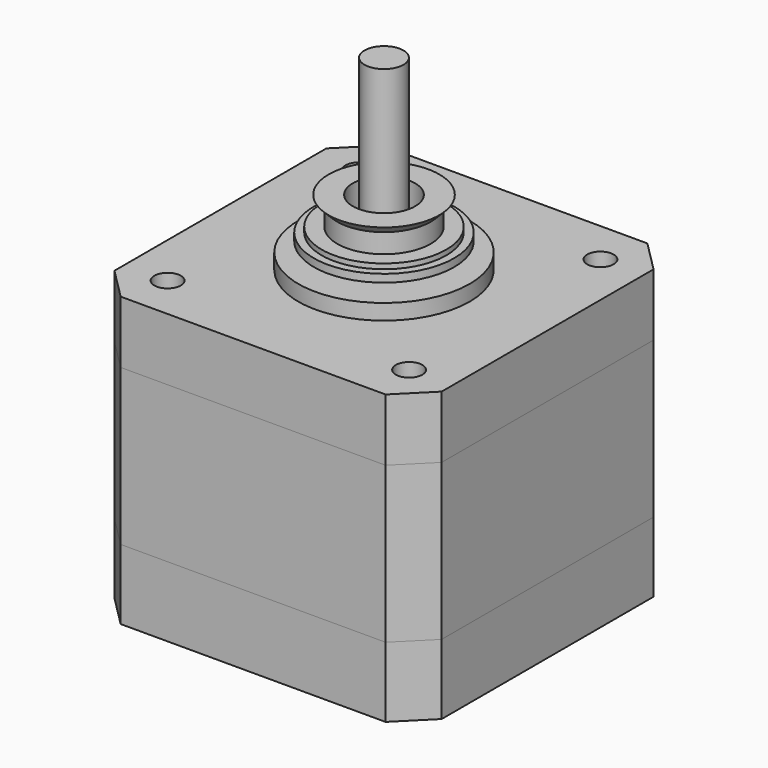
from build123d import *

# Parameters (mm, degrees)
BOX_W             = 42
BOX_H             = 42
BOX_DEPTH         = 8
CHAMFER_SIZE      = 4
CYLINDER_R        = 11
CYLINDER_DEPTH    = 2
SKETCH_R          = 1.7
HOLE_DEPTH        = 5
HOLE_TIPS_R       = 1.7
BOX001_W          = 42
BOX001_H          = 42
BOX001_DEPTH      = 20
CHAMFER001_SIZE   = 4
BOX002_W          = 42
BOX002_H          = 42
BOX002_DEPTH      = 9
CHAMFER002_SIZE   = 4
CYLINDER001_R     = 2.5
CYLINDER001_DEPTH = 22
CYLINDER002_R     = 5.99
CYLINDER002_DEPTH = 8.5
CYLINDER003_R     = 4
CYLINDER003_DEPTH = 13


with BuildPart() as body:
    # Box → Box (join)
    with BuildSketch(Plane(origin=(21, -21, 0), x_dir=(-1, 0, 0), z_dir=(0, 0, -1))):
        with Locations((21, 21)):
            Rectangle(BOX_W, BOX_H)
    extrude(amount=BOX_DEPTH)

    # Chamfer
    chamfer_edges = [body.edges().sort_by_distance(p)[0] for p in [
        (21, -21, -4),
        (21, 21, -4),
        (-21, -21, -4),
        (-21, 21, -4),
    ]]
    chamfer(chamfer_edges, length=CHAMFER_SIZE)

    # Cylinder → Cylinder (join)
    with BuildSketch(Plane.XY):
        Circle(CYLINDER_R)
    extrude(amount=CYLINDER_DEPTH)

    # Sketch → Hole (cut)
    with BuildSketch(Plane.XY):
        with Locations((-15.5, 15.349138)):
            Circle(SKETCH_R)
        with Locations((15.5, 15.349138)):
            Circle(SKETCH_R)
        with Locations((-15.5, -15.349138)):
            Circle(SKETCH_R)
        with Locations((15.5, -15.349138)):
            Circle(SKETCH_R)
    extrude(amount=-HOLE_DEPTH, mode=Mode.SUBTRACT)

    # Hole tips → Hole tip 1 section 0
    with BuildSketch(Plane.XY.offset(-5), mode=Mode.PRIVATE) as hole_tip_1_s0:
        with Locations((-15.5, 15.349138)):
            Circle(HOLE_TIPS_R)
    loft([hole_tip_1_s0.sketch, Vertex(-15.5, 15.349138, -6.021463)], mode=Mode.SUBTRACT)

    # Hole tips → Hole tip 2 section 0
    with BuildSketch(Plane.XY.offset(-5), mode=Mode.PRIVATE) as hole_tip_2_s0:
        with Locations((15.5, 15.349138)):
            Circle(HOLE_TIPS_R)
    loft([hole_tip_2_s0.sketch, Vertex(15.5, 15.349138, -6.021463)], mode=Mode.SUBTRACT)

    # Hole tips → Hole tip 3 section 0
    with BuildSketch(Plane.XY.offset(-5), mode=Mode.PRIVATE) as hole_tip_3_s0:
        with Locations((-15.5, -15.349138)):
            Circle(HOLE_TIPS_R)
    loft([hole_tip_3_s0.sketch, Vertex(-15.5, -15.349138, -6.021463)], mode=Mode.SUBTRACT)

    # Hole tips → Hole tip 4 section 0
    with BuildSketch(Plane.XY.offset(-5), mode=Mode.PRIVATE) as hole_tip_4_s0:
        with Locations((15.5, -15.349138)):
            Circle(HOLE_TIPS_R)
    loft([hole_tip_4_s0.sketch, Vertex(15.5, -15.349138, -6.021463)], mode=Mode.SUBTRACT)


with BuildPart() as body001:
    # Box001 → Box001 (join)
    with BuildSketch(Plane(origin=(21, -21, 0), x_dir=(-1, 0, 0), z_dir=(0, 0, -1))):
        with Locations((21, 21)):
            Rectangle(BOX001_W, BOX001_H)
    extrude(amount=BOX001_DEPTH)

    # Chamfer001
    chamfer001_edges = [body001.edges().sort_by_distance(p)[0] for p in [
        (21, -21, -10),
        (21, 21, -10),
        (-21, -21, -10),
        (-21, 21, -10),
    ]]
    chamfer(chamfer001_edges, length=CHAMFER001_SIZE)


with BuildPart() as body001_1:
    # Body001 placement: moved
    add(body001.part.moved(Location((0, 0, -8))))


with BuildPart() as body002:
    # Box002 → Box002 (join)
    with BuildSketch(Plane(origin=(21, -21, 0), x_dir=(-1, 0, 0), z_dir=(0, 0, -1))):
        with Locations((21, 21)):
            Rectangle(BOX002_W, BOX002_H)
    extrude(amount=BOX002_DEPTH)

    # Chamfer002
    chamfer002_edges = [body002.edges().sort_by_distance(p)[0] for p in [
        (21, -21, -4.5),
        (21, 21, -4.5),
        (-21, -21, -4.5),
        (-21, 21, -4.5),
    ]]
    chamfer(chamfer002_edges, length=CHAMFER002_SIZE)


with BuildPart() as body002_1:
    # Body002 placement: moved
    add(body002.part.moved(Location((0, 0, -28))))


with BuildPart() as body003:
    # Cylinder001 → Cylinder001 (join)
    with BuildSketch(Plane.XY.offset(2)):
        Circle(CYLINDER001_R)
    extrude(amount=CYLINDER001_DEPTH)


with BuildPart() as body004:
    # Sketch001 → Revolution (revolve)
    with BuildSketch(Plane.XZ):
        Polygon((2.5, 4.25), (2.5, -4.25), (9, -4.25), (9, -3.25), (6.365, -3.25), (6.365, 3.25), (9, 3.25), (9, 4.25), align=None)
    revolve(axis=Axis((0, 0, 0), (0, 0, 1)))


with BuildPart() as body005:
    # Sketch002 → Revolution001 (revolve)
    with BuildSketch(Plane.XZ):
        Polygon((2.5, 4.9), (2.5, -11.1), (8, -11.1), (8, -3.6), (6.365, -3.6), (6.365, 3.6), (8, 3.6), (8, 4.9), align=None)
    revolve(axis=Axis((0, 0, 0), (0, 0, 1)))


with BuildPart() as body006:
    # Cylinder002 → Cylinder002 (join)
    with BuildSketch(Plane.XY):
        Circle(CYLINDER002_R)
    extrude(amount=CYLINDER002_DEPTH)

    # Cone → Cone (revolve)
    with BuildSketch(Plane.XZ):
        Polygon((0, 0), (7.1, 0), (5.1, 2), (0, 2), align=None)
    revolve(axis=Axis((0, 0, 0), (0, 0, 1)))

    # Cone001 → Cone001 (revolve)
    with BuildSketch(Plane(origin=(0, 0, 8.5), x_dir=(-1, 0, 0), z_dir=(0, -1, 0))):
        Polygon((0, 0), (7.1, 0), (5.1, 2), (0, 2), align=None)
    revolve(axis=Axis((0, 0, 8.5), (0, 0, -1)))

    # Cylinder003 → Cylinder003 (cut)
    with BuildSketch(Plane.XY):
        Circle(CYLINDER003_R)
    extrude(amount=CYLINDER003_DEPTH, mode=Mode.SUBTRACT)


solid = Compound([body.part, body001_1.part, body002_1.part, body003.part, body004.part, body005.part, body006.part])
